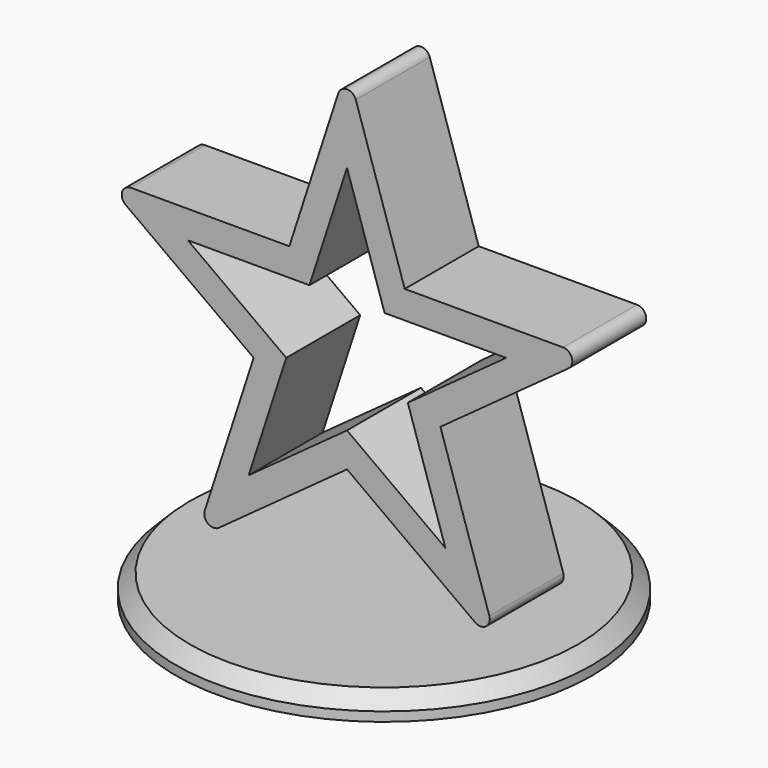
from build123d import *

# Parameters (mm, degrees)
F0_R     = 45
F1_DEPTH = 5
F3_DEPTH = 10
F4_SIZE  = 3
F5_R     = 2


with BuildPart() as f1:
    # F0 (on Top) → F1 (new body)
    with BuildSketch(Plane.XY):
        Circle(F0_R)
    extrude(amount=F1_DEPTH)

    # F4
    f4_edges = [f1.edges().sort_by_distance(p)[0] for p in [
        (-45, 0, 5),
    ]]
    chamfer(f4_edges, length=F4_SIZE)


with BuildPart() as f3:
    # F2 (on Front) → F3 (new body, symmetric)
    with BuildSketch(Plane.XZ):
        Polygon((-20.206259, 43.434588), (-32.694414, 5), (-27.694414, 8.632713), (0, 28.753882), (27.694414, 8.632713), (32.694414, 5), (20.206259, 43.434588), (52.900673, 67.188471), (12.488155, 67.188471), (0, 105.623059), (-12.488155, 67.188471), (-52.900673, 67.188471), align=None)
        Polygon((-13.152836, 45.726385), (-34.434571, 61.188471), (-8.1289, 61.188471), (0, 86.206651), (8.1289, 61.188471), (34.434571, 61.188471), (13.152836, 45.726385), (21.281736, 20.708204), (0, 36.17029), (-21.281736, 20.708204), align=None, mode=Mode.SUBTRACT)
    extrude(amount=F3_DEPTH, both=True)

    # F5
    f5_edges = [f3.edges().sort_by_distance(p)[0] for p in [
        (0, 0, 105.623059),
        (52.900673, 0, 67.188471),
        (32.694414, 0, 5),
        (-32.694414, 0, 5),
        (-52.900673, 0, 67.188471),
    ]]
    fillet(f5_edges, radius=F5_R)


solid = Compound([f1.part, f3.part])
